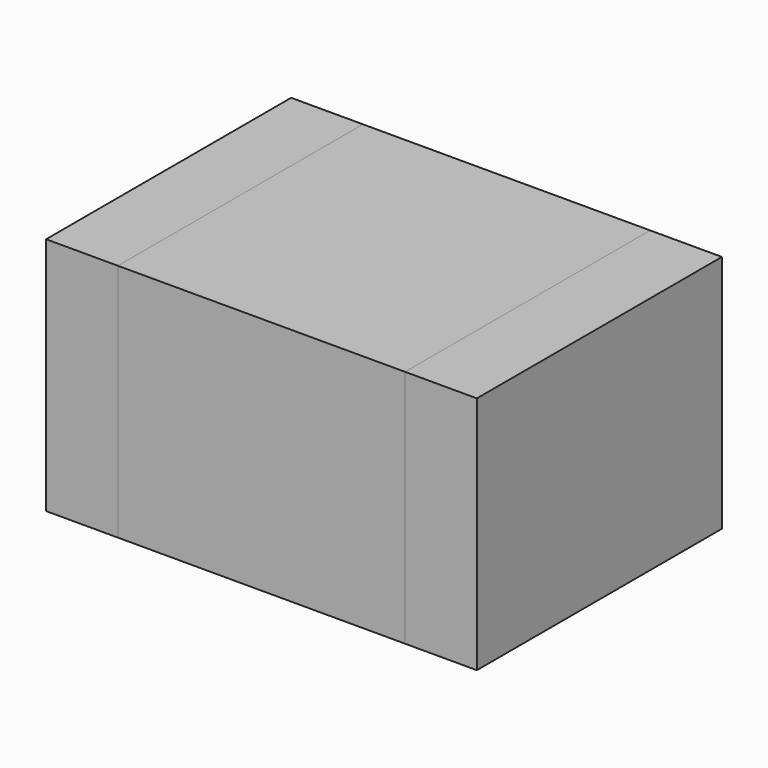
from build123d import *

# Parameters (mm, degrees)
BOX_W        = 0.75
BOX_H        = 3.2
BOX_DEPTH    = 2.5
BOX001_W     = 3
BOX001_H     = 3.2
BOX001_DEPTH = 2.5
BOX002_W     = 0.75
BOX002_H     = 3.2
BOX002_DEPTH = 2.5


with BuildPart() as pad001:
    # Box → Box (new body)
    with BuildSketch(Plane.XY):
        with Locations((0.375, 1.6)):
            Rectangle(BOX_W, BOX_H)
    extrude(amount=BOX_DEPTH)


with BuildPart() as corpo:
    # Box001 → Box001 (new body)
    with BuildSketch(Plane(origin=(0.75, 0, 0), x_dir=(1, 0, 0), z_dir=(0, 0, 1))):
        with Locations((1.5, 1.6)):
            Rectangle(BOX001_W, BOX001_H)
    extrude(amount=BOX001_DEPTH)


with BuildPart() as pad002:
    # Box002 → Box002 (new body)
    with BuildSketch(Plane(origin=(3.75, 0, 0), x_dir=(1, 0, 0), z_dir=(0, 0, 1))):
        with Locations((0.375, 1.6)):
            Rectangle(BOX002_W, BOX002_H)
    extrude(amount=BOX002_DEPTH)


solid = Compound([pad001.part, corpo.part, pad002.part])
